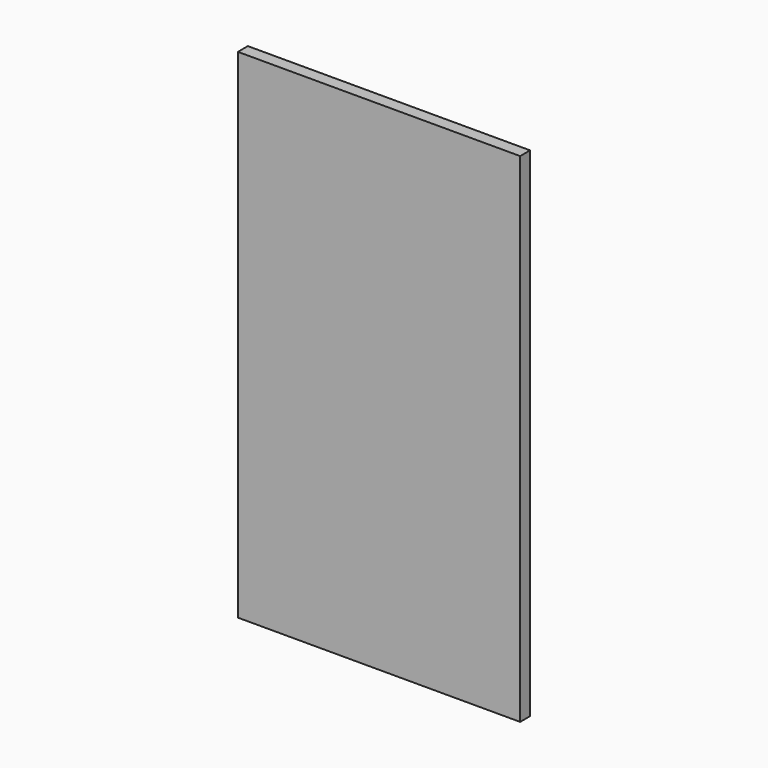
from build123d import *

# Parameters (mm, degrees)
F0_W     = 34
F0_H     = 60
F1_DEPTH = 1.5


with BuildPart() as f1:
    # F0 (on Front) → F1 (new body)
    with BuildSketch(Plane.XZ):
        Rectangle(F0_W, F0_H)
    extrude(amount=F1_DEPTH)


with BuildPart() as f1_1:
    # F2: moved
    add(f1.part.moved(Location((0, 0.5, 0))))


solid = f1_1.part
